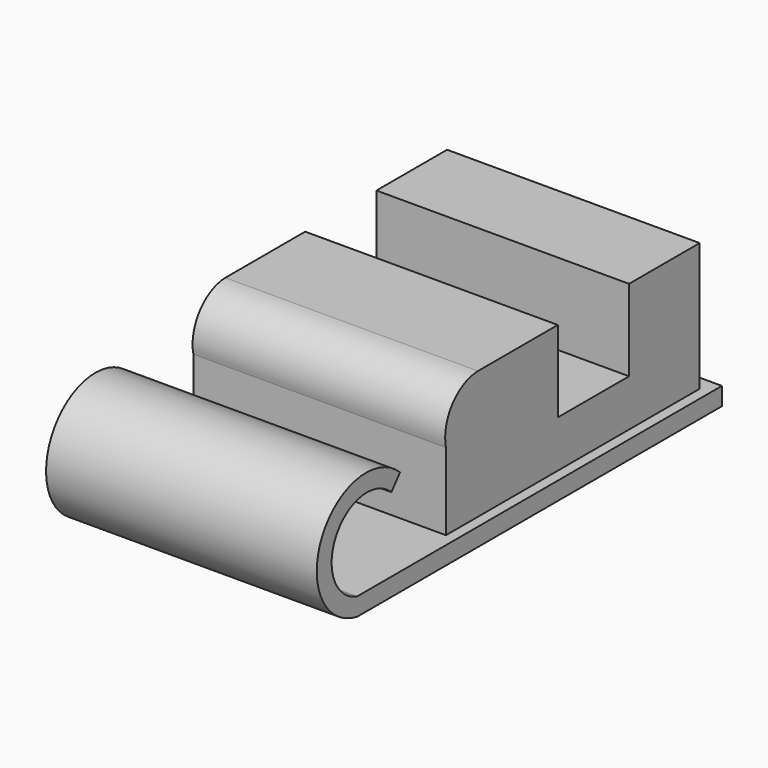
from build123d import *

# Parameters (mm, degrees)
F1_DEPTH      = 36.068
F1_DEPTH_BACK = 36.068
F3_DEPTH      = 33.274
F3_DEPTH_BACK = 34.036


with BuildPart() as f1:
    # F0 (on Right) → F1 (new body, two sides)
    with BuildSketch(Plane.YZ) as f1_sk:
        with BuildLine():
            Line((67.711897, 0), (53.822275, 0))
            Line((53.822275, 0), (-53.822279, 0))
            ThreePointArc((-53.822279, 0), (-60.71707, 17.182161), (-42.39228, 19.821646))
            Line((-42.39228, 19.821646), (-39.498609, 23.294052))
            ThreePointArc((-39.498609, 23.294052), (-65.444359, 18.845353), (-53.822279, -4.774557))
            Line((-53.822279, -4.774557), (67.711897, -4.774557))
            Line((67.711897, -4.774557), (67.711897, 0))
        make_face()
    extrude(amount=F1_DEPTH)
    extrude(f1_sk.sketch, amount=-F1_DEPTH_BACK)

    # F2 (on Right) → F3 (join, two sides)
    with BuildSketch(Plane.YZ) as f3_sk:
        with BuildLine():
            Line((-20.712223, 20.559708), (-20.712223, 0))
            Line((-20.712223, 0), (63.800037, 0))
            Line((63.800037, 0), (63.800037, 34.184899))
            Line((63.800037, 34.184899), (40.267568, 34.184899))
            Line((40.267568, 34.184899), (40.267568, 12.495875))
            Line((40.267568, 12.495875), (16.530469, 12.495875))
            Line((16.530469, 12.495875), (16.530469, 34.184899))
            Line((16.530469, 34.184899), (-10.077052, 34.184899))
            ThreePointArc((-10.077052, 34.184899), (-18.609421, 29.881609), (-20.712223, 20.559708))
        make_face()
    extrude(amount=F3_DEPTH)
    extrude(f3_sk.sketch, amount=-F3_DEPTH_BACK)


solid = f1.part
